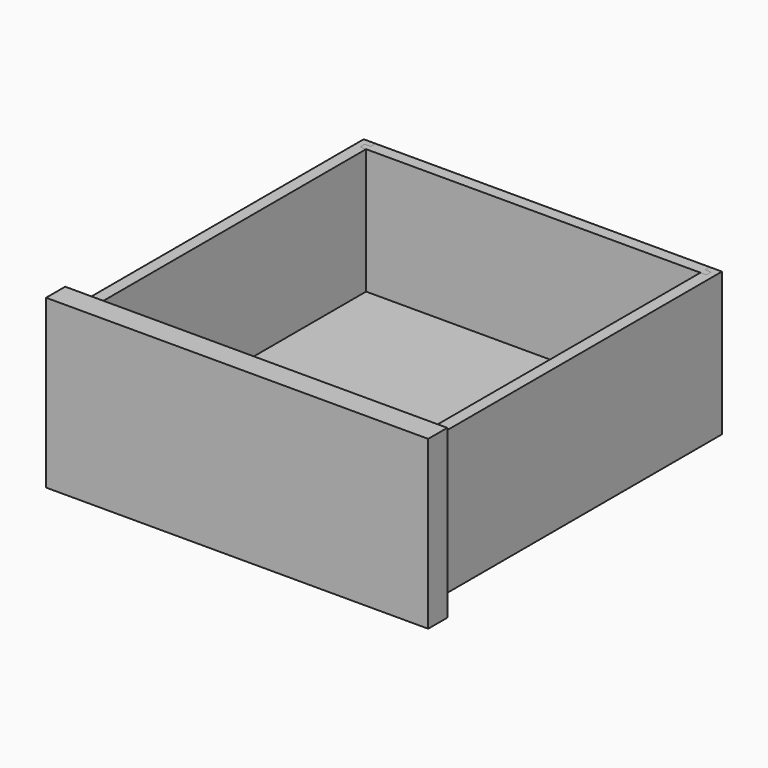
from build123d import *

# Parameters (mm, degrees)
F1_DEPTH  = 152.4
F2_DEPTH  = 152.4
F3_DEPTH  = 133.35
F4_W      = 6.35
F4_H      = 9.525
F5_DEPTH  = 381.001
F6_DEPTH  = 381.001
F8_DEPTH  = 381
F9_W      = 355.6
F9_H      = 152.4
F10_DEPTH = 25.4


with BuildPart() as f1:
    # F0 (on Top) → F1 (new body)
    with BuildSketch(Plane.XY):
        Polygon((-177.8, -190.5), (177.8, -190.5), (177.8, -184.15), (184.15, -184.15), (184.15, -177.8), (177.8, -177.8), (-177.8, -177.8), (-184.15, -177.8), (-184.15, -184.15), (-177.8, -184.15), align=None)
    extrude(amount=-F1_DEPTH)


with BuildPart() as f2:
    # F0 (on Top) → F2 (new body)
    with BuildSketch(Plane.XY):
        Polygon((-190.5, -190.5), (-177.8, -190.5), (-177.8, -184.15), (-184.15, -184.15), (-184.15, -177.8), (-177.8, -177.8), (-177.8, 177.8), (-184.15, 177.8), (-184.15, 184.15), (-177.8, 184.15), (-177.8, 190.5), (-190.5, 190.5), align=None)
    extrude(amount=-F2_DEPTH)

    # F4 (on face) → F5 (cut, through all)
    with BuildSketch(Plane.XZ.offset(190.5)):
        with Locations((-180.975, -138.1125)):
            Rectangle(F4_W, F4_H)
    extrude(amount=-F5_DEPTH, mode=Mode.SUBTRACT)


with BuildPart() as f2b:
    # F0 (on Top) → F2, piece 2 (new body)
    with BuildSketch(Plane.XY):
        Polygon((177.8, -190.5), (190.5, -190.5), (190.5, 190.5), (177.8, 190.5), (177.8, 184.15), (184.15, 184.15), (184.15, 177.8), (177.8, 177.8), (177.8, -177.8), (184.15, -177.8), (184.15, -184.15), (177.8, -184.15), align=None)
    extrude(amount=-F2_DEPTH)

    # F4 (on face) → F6 (cut, through all)
    with BuildSketch(Plane.XZ.offset(190.5)):
        with Locations((180.975, -138.1125)):
            Rectangle(F4_W, F4_H)
    extrude(amount=-F6_DEPTH, mode=Mode.SUBTRACT)


with BuildPart() as f3:
    # F0 (on Top) → F3 (new body)
    with BuildSketch(Plane.XY):
        Polygon((177.8, 184.15), (177.8, 190.5), (-177.8, 190.5), (-177.8, 184.15), (-184.15, 184.15), (-184.15, 177.8), (-177.8, 177.8), (177.8, 177.8), (184.15, 177.8), (184.15, 184.15), align=None)
    extrude(amount=-F3_DEPTH)


with BuildPart() as f8:
    # F7 (on face) → F8 (new body, through all)
    with BuildSketch(Plane.XZ.offset(190.5)):
        Polygon((184.15, -142.875), (184.15, -133.35), (-177.8, -133.35), (-184.15, -133.35), (-184.15, -142.875), (-177.8, -142.875), (-177.8, -152.4), (177.8, -152.4), (177.8, -142.875), align=None)
    extrude(amount=-F8_DEPTH)


with BuildPart() as f10:
    # F9 (on face) → F10 (new body)
    with BuildSketch(Plane.XZ.offset(190.5)):
        Polygon((203.2, -165.1), (203.2, 12.7), (177.8, 12.7), (-177.8, 12.7), (-203.2, 12.7), (-203.2, -165.1), (-177.8, -165.1), (177.8, -165.1), align=None)
        with Locations((0, -76.2)):
            Rectangle(F9_W, F9_H, mode=Mode.SUBTRACT)
        with Locations((0, -76.2)):
            Rectangle(F9_W, F9_H)
    extrude(amount=F10_DEPTH)


solid = Compound([f1.part, f2.part, f2b.part, f3.part, f8.part, f10.part])
